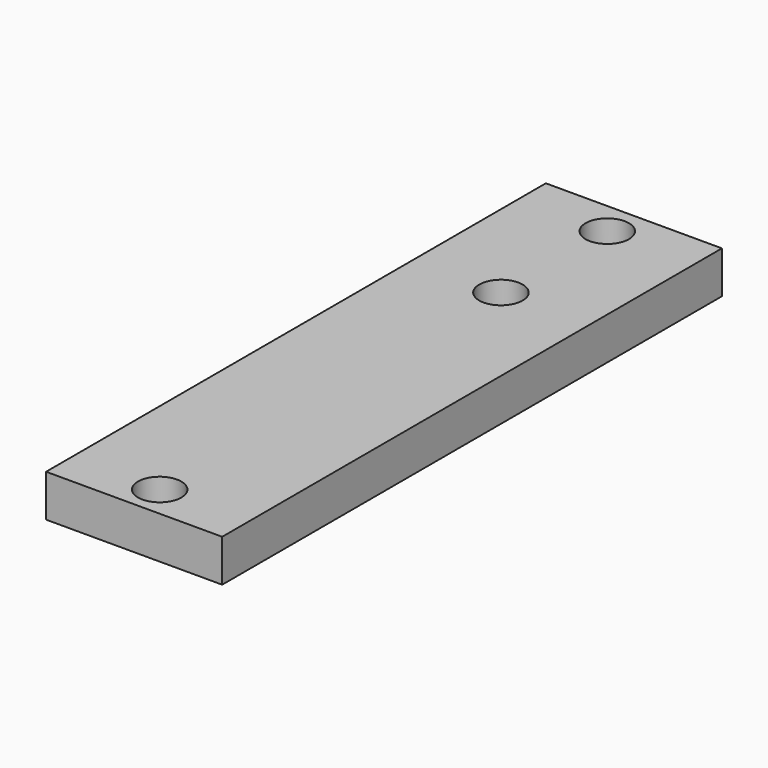
from build123d import *

# Parameters (mm, degrees)
F0_W     = 26.5
F0_H     = 94
F1_DEPTH = 6.35
F3_D     = 6.528


with BuildPart() as f1:
    # F0 (on Top) → F1 (new body)
    with BuildSketch(Plane.XY):
        with Locations((0.116214, 19.529511)):
            Rectangle(F0_W, F0_H)
    extrude(amount=F1_DEPTH)

    # F3 (through all)
    with Locations(Plane.XY.offset(6.35)):
        with Locations((0.116214, 61.529511), (0.116214, 41.529511), (0.116214, -22.670489)):
            Hole(F3_D / 2)


solid = f1.part
